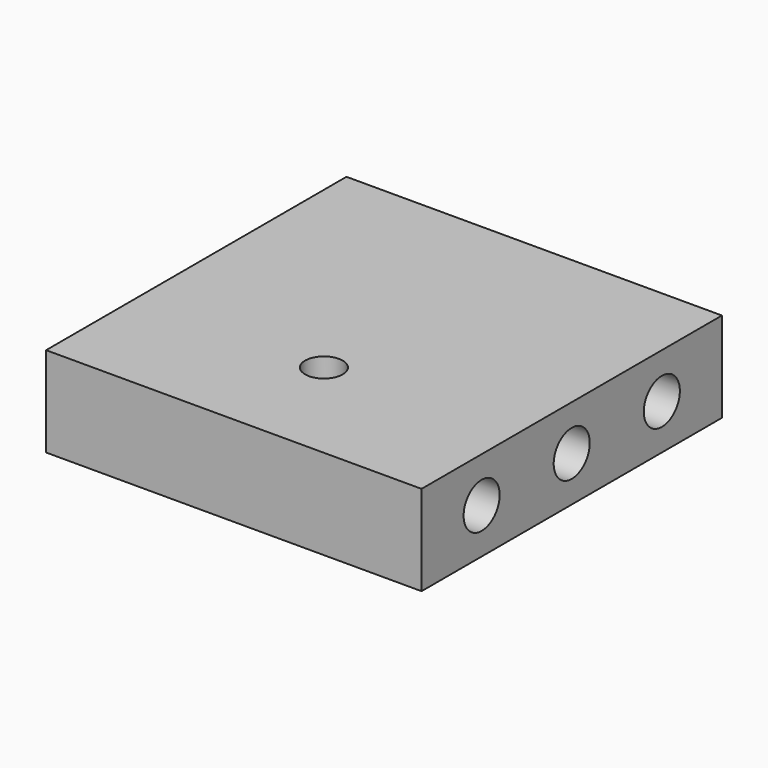
from build123d import *

# Parameters (mm, degrees)
F0_W     = 50
F0_H     = 50
F1_DEPTH = 12
F2_R     = 3
F3_DEPTH = 15
F4_R     = 3
F5_DEPTH = 15
F6_R     = 3
F7_DEPTH = 50.001
F8_R     = 2.5
F9_DEPTH = 12.001


with BuildPart() as f1:
    # F0 (on Top) → F1 (new body)
    with BuildSketch(Plane.XY):
        with Locations((-5.501713, -4.568746)):
            Rectangle(F0_W, F0_H)
    extrude(amount=F1_DEPTH)

    # F2 (on face) → F3 (cut)
    with BuildSketch(Plane(origin=(-30.501713, 0, 0), x_dir=(0, -1, 0), z_dir=(-1, 0, 0))):
        with Locations((-10.431254, 6)):
            Circle(F2_R)
        with Locations((19.568746, 6)):
            Circle(F2_R)
    extrude(amount=-F3_DEPTH, mode=Mode.SUBTRACT)

    # F4 (on face) → F5 (cut)
    with BuildSketch(Plane.YZ.offset(19.498287)):
        with Locations((10.431254, 6)):
            Circle(F4_R)
        with Locations((-19.568746, 6)):
            Circle(F4_R)
    extrude(amount=-F5_DEPTH, mode=Mode.SUBTRACT)

    # F6 (on face) → F7 (cut, through all)
    with BuildSketch(Plane.YZ.offset(19.498287)):
        with Locations((-4.568746, 6)):
            Circle(F6_R)
    extrude(amount=-F7_DEPTH, mode=Mode.SUBTRACT)

    # F8 (on face) → F9 (cut, through all)
    with BuildSketch(Plane(origin=(0, 0, 0), x_dir=(1, 0, 0), z_dir=(0, 0, -1))):
        with Locations((-5.501713, 14.568746)):
            Circle(F8_R)
    extrude(amount=-F9_DEPTH, mode=Mode.SUBTRACT)


solid = f1.part
